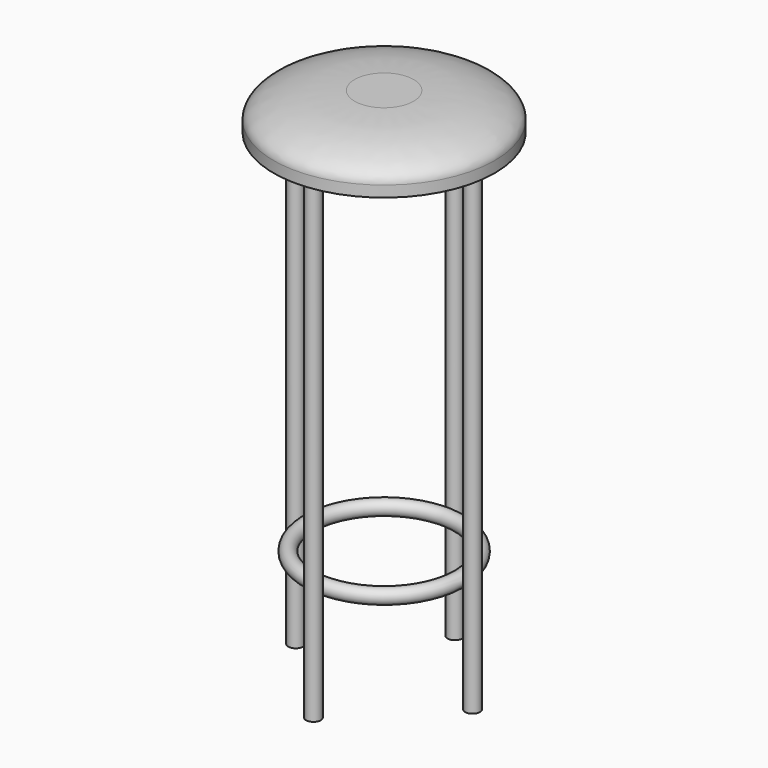
from build123d import *

# Parameters (mm, degrees)
F2_R     = 10
F3_DEPTH = 650
F5_R     = 10


with BuildPart() as f1:
    # F0 (on Front) → F1 (revolve)
    with BuildSketch(Plane.XZ):
        with BuildLine():
            Line((0, 50), (0, 0))
            Line((0, 0), (40, 0))
            Line((40, 0), (150, 0))
            Line((150, 0), (150, 15))
            add(Edge.make_bspline(
                [(150, 15), (150, 50), (40, 50)],
                knots=[0, 0, 0, 1.5707963268, 1.5707963268, 1.5707963268], degree=2, weights=[1, 0.7071067812, 1]))
            Line((40, 50), (0, 50))
        make_face()
    revolve(axis=Axis((0, 0, 25), (0, 0, 1)))

    # F2 (on face) → F3 (join)
    with BuildSketch(Plane(origin=(0, 0, 0), x_dir=(1, 0, 0), z_dir=(0, 0, -1))):
        with Locations((0, 120)):
            Circle(F2_R)
        with Locations((-120, 0)):
            Circle(F2_R)
        with Locations((0, -120)):
            Circle(F2_R)
        with Locations((120, 0)):
            Circle(F2_R)
    extrude(amount=F3_DEPTH)

    # F5 (on Front) → F6 (revolve)
    with BuildSketch(Plane.XZ):
        with Locations((102, -500)):
            Circle(F5_R)
    revolve(axis=Axis((0, 0, -250), (0, 0, -1)))


solid = f1.part
